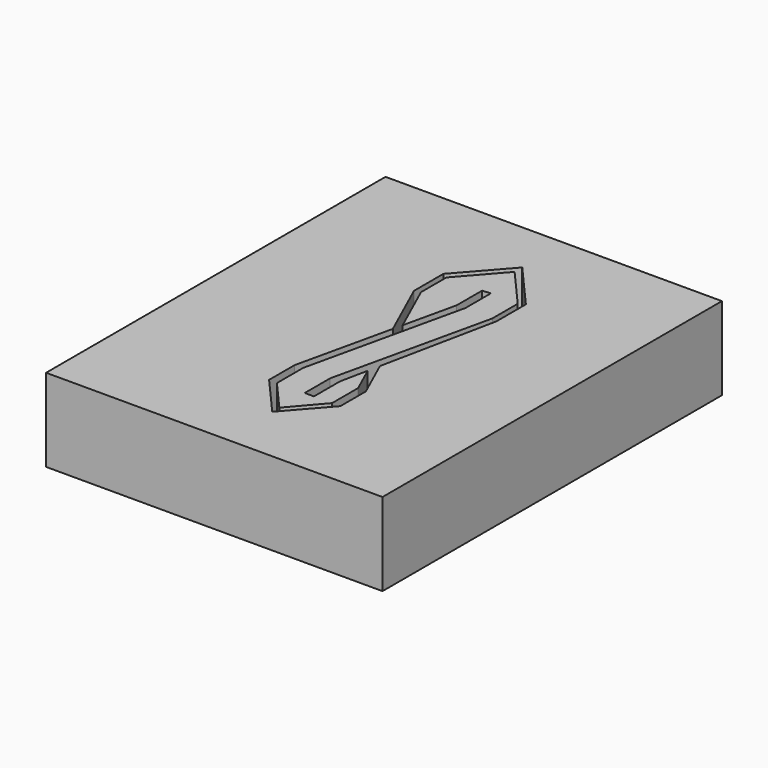
from build123d import *

# Parameters (mm, degrees)
F1_W     = 103.074394
F1_H     = 129.994996
F2_DEPTH = 25.4
F3_DEPTH = 43.688


with BuildPart() as f2:
    # F1 (on Top) → F2 (new body)
    with BuildSketch(Plane.XY):
        with Locations((-3.340118, 0.570539)):
            Rectangle(F1_W, F1_H)
    extrude(amount=F2_DEPTH)

    # F0 (on Top) → F3 (cut)
    with BuildSketch(Plane.XY):
        Polygon((0, 24.210343), (-3.638666, 8.070114), (-4.299365, 5.139418), (-10.915999, -24.210343), (-10.915999, -33.967663), (0, -46.40824), (10.915999, -33.967663), (10.915999, -24.210343), (5.328327, -11.817573), (4.563718, -15.537609), (8.378542, -23.998421), (8.378542, -33.967663), (0, -43.693159), (-8.412593, -34.105625), (-8.412593, -23.997262), (2.522292, 24.476683), (2.522292, 34.153305), (0, 33.967663), align=None)
        Polygon((-10.915999, 24.210343), (-10.915999, 33.967663), (0, 46.40824), (10.915999, 33.967663), (10.915999, 24.210343), (0, -24.210343), (0, -33.967663), (2.824698, -33.967663), (2.824698, -23.998421), (4.563718, -15.537609), (5.328327, -11.817573), (12.627123, 23.693092), (12.627123, 34.947265), (0, 49.33795), (-12.664876, 34.947265), (-12.664876, 23.693092), (-4.299365, 5.139418), (-3.638666, 8.070114), align=None)
    extrude(amount=F3_DEPTH, mode=Mode.SUBTRACT)


solid = f2.part
